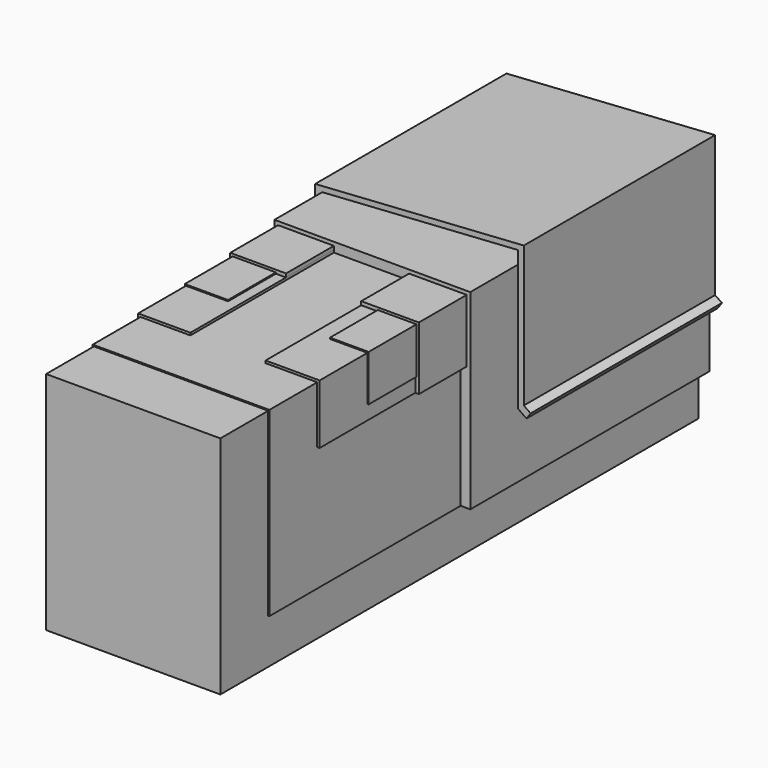
from build123d import *

# Parameters (mm, degrees)
F1_DEPTH  = 254
F2_DEPTH  = 228.6
F3_DEPTH  = 203.2
F4_DEPTH  = 177.8
F5_DEPTH  = 152.4
F6_DEPTH  = 203.2
F7_DEPTH  = 177.8
F8_DEPTH  = 152.4
F9_DEPTH  = 127
F10_DEPTH = 101.6


with BuildPart() as f1:
    # F0 (on Front) → F1 (new body)
    with BuildSketch(Plane.XZ):
        Polygon((-44.298312, -36.739912), (-44.298312, -53.916227), (29.747834, -53.916227), (29.747834, -34.778729), (29.747834, 41.874755), (-44.298312, 41.874755), align=None)
    extrude(amount=F1_DEPTH)


with BuildPart() as f2:
    # F0 (on Front) → F2 (new body)
    with BuildSketch(Plane.XZ):
        Polygon((-44.806312, -36.739912), (-44.298312, -36.739912), (-44.298312, 41.874755), (29.747834, 41.874755), (29.747834, -34.778729), (30.255834, -34.778729), (30.255834, 18.118348), (30.255834, 42.382755), (8.319654, 42.382755), (-23.616945, 42.382755), (-44.806312, 42.382755), (-44.806312, 17.486811), align=None)
    extrude(amount=F2_DEPTH)


with BuildPart() as f3:
    # F0 (on Front) → F3 (new body)
    with BuildSketch(Plane.XZ):
        Polygon((-45.822312, 17.486811), (-44.806312, 17.486811), (-44.806312, 42.382755), (-23.616945, 42.382755), (-23.616945, 43.398755), (-27.948299, 43.398755), (-45.822312, 43.398755), (-45.822312, 24.056775), align=None)
    extrude(amount=F3_DEPTH)


with BuildPart() as f4:
    # F0 (on Front) → F4 (new body)
    with BuildSketch(Plane.XZ):
        Polygon((-46.330312, 24.056775), (-45.822312, 24.056775), (-45.822312, 43.398755), (-27.948299, 43.398755), (-27.948299, 43.906755), (-46.330312, 43.906755), align=None)
    extrude(amount=F4_DEPTH)


with BuildPart() as f5:
    # F0 (on Front) → F5 (new body)
    with BuildSketch(Plane.XZ):
        Polygon((-47.346312, 17.486811), (-45.822312, 17.486811), (-45.822312, 24.056775), (-46.330312, 24.056775), (-46.330312, 43.906755), (-27.948299, 43.906755), (-27.948299, 43.398755), (-23.616945, 43.398755), (-23.616945, 44.922755), (-47.346312, 44.922755), align=None)
    extrude(amount=F5_DEPTH)


with BuildPart() as f6:
    # F0 (on Front) → F6 (new body)
    with BuildSketch(Plane.XZ):
        Polygon((30.255834, 42.382755), (30.255834, 18.118348), (31.271834, 18.118348), (31.271834, 24.274269), (31.271834, 43.398755), (15.354994, 43.398755), (8.319654, 43.398755), (8.319654, 42.382755), align=None)
    extrude(amount=F6_DEPTH)


with BuildPart() as f7:
    # F0 (on Front) → F7 (new body)
    with BuildSketch(Plane.XZ):
        Polygon((31.271834, 43.398755), (31.271834, 24.274269), (31.779834, 24.274269), (31.779834, 43.906755), (15.354994, 43.906755), (15.354994, 43.398755), align=None)
    extrude(amount=F7_DEPTH)


with BuildPart() as f8:
    # F0 (on Front) → F8 (new body)
    with BuildSketch(Plane.XZ):
        Polygon((31.271834, 24.274269), (31.271834, 18.118348), (32.795834, 18.118348), (32.795834, 44.922755), (8.319654, 44.922755), (8.319654, 43.398755), (15.354994, 43.398755), (15.354994, 43.906755), (31.779834, 43.906755), (31.779834, 24.274269), align=None)
    extrude(amount=F8_DEPTH)


with BuildPart() as f9:
    # F0 (on Front) → F9 (new body)
    with BuildSketch(Plane.XZ):
        Polygon((-48.870312, -36.739912), (-44.806312, -36.739912), (-44.806312, 17.486811), (-45.822312, 17.486811), (-47.346312, 17.486811), (-47.346312, 44.922755), (-23.616945, 44.922755), (-23.616945, 43.398755), (-23.616945, 42.382755), (8.319654, 42.382755), (8.319654, 43.398755), (8.319654, 44.922755), (32.795834, 44.922755), (32.795834, 18.118348), (31.271834, 18.118348), (30.255834, 18.118348), (30.255834, -34.778729), (34.319609, -34.821534), (34.319609, -7.533646), (34.319609, 46.446755), (-48.870312, 46.446755), (-48.870312, -7.431835), align=None)
    extrude(amount=F9_DEPTH)


with BuildPart() as f10:
    # F0 (on Front) → F10 (new body)
    with BuildSketch(Plane.XZ):
        Polygon((-51.914565, -11.981806), (-48.870312, -7.431835), (-48.870312, 46.446755), (34.319609, 51.855665), (34.319609, 46.446755), (34.319609, -7.533646), (37.905118, -10.008302), (39.636359, -7.499922), (36.740925, -5.501544), (36.740925, 54.337468), (-51.914565, 48.546594), (-51.262777, -7.499922), (-53.535745, -10.897122), align=None)
    extrude(amount=F10_DEPTH)


solid = Compound([f1.part, f2.part, f3.part, f4.part, f5.part, f6.part, f7.part, f8.part, f9.part, f10.part])
